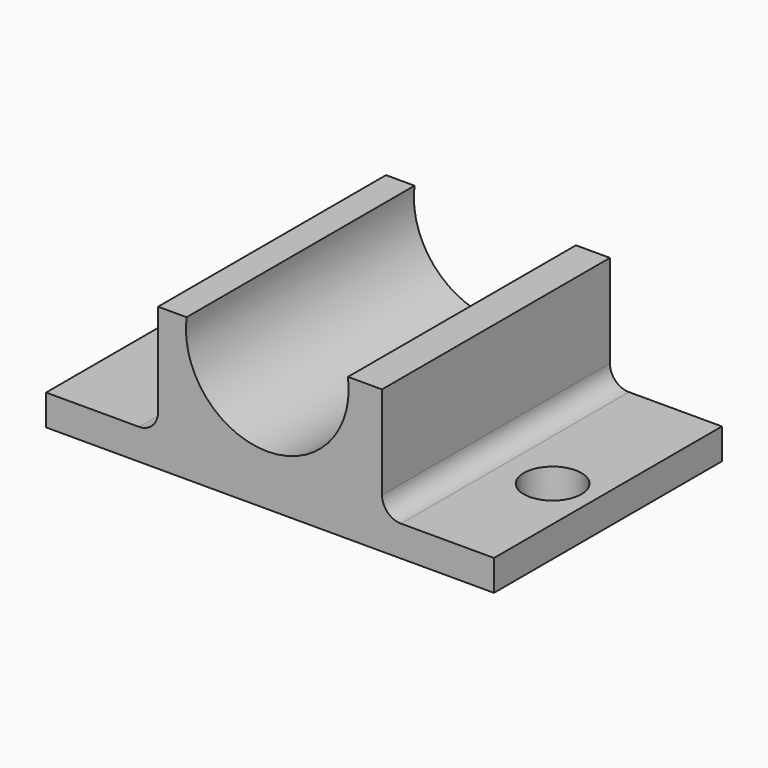
from build123d import *

# Parameters (mm, degrees)
F1_DEPTH = 76.2
F2_R     = 5.08
F3_R     = 7.707036
F3_R_2   = 7.889442
F4_DEPTH = 25.4


with BuildPart() as f1:
    # F0 (on Front) → F1 (new body)
    with BuildSketch(Plane.XZ):
        with BuildLine():
            Line((-63.861191, -13.506276), (-63.861191, -21.727486))
            Line((-63.861191, -21.727486), (55.933593, -21.727486))
            Line((55.933593, -21.727486), (55.933593, -13.506276))
            Line((55.933593, -13.506276), (25.984896, -13.506276))
            Line((25.984896, -13.506276), (25.984896, 16.442422))
            Line((25.984896, 16.442422), (16.882844, 16.442422))
            ThreePointArc((16.882844, 16.442422), (-4.697835, -8.147052), (-26.278514, 16.442422))
            Line((-26.278514, 16.442422), (-33.912495, 16.442422))
            Line((-33.912495, 16.442422), (-33.912495, -13.506276))
            Line((-33.912495, -13.506276), (-63.861191, -13.506276))
        make_face()
    extrude(amount=F1_DEPTH)

    # F2
    f2_edges = [f1.edges().sort_by_distance(p)[0] for p in [
        (-33.912495, -38.1, -13.506276),
        (25.984896, -38.1, -13.506276),
    ]]
    fillet(f2_edges, radius=F2_R)

    # F3 (on face) → F4 (cut)
    with BuildSketch(Plane.XY.offset(-13.506276)):
        with Locations((44.482626, -42.280514)):
            Circle(F3_R)
        with Locations((-53.291064, -36.701836)):
            Circle(F3_R_2)
    extrude(amount=-F4_DEPTH, mode=Mode.SUBTRACT)


solid = f1.part
